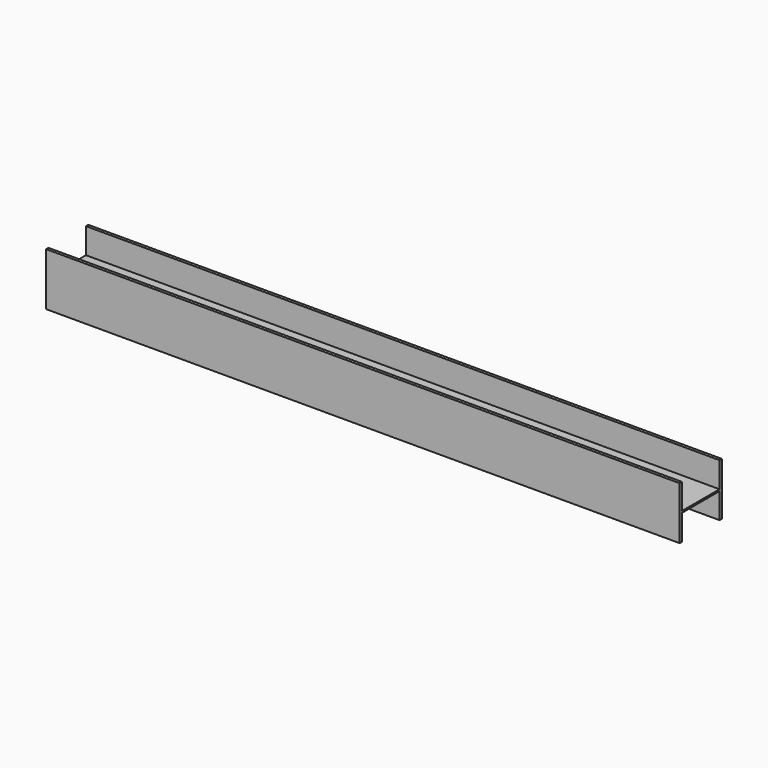
from build123d import *

# Parameters (mm, degrees)
F1_DEPTH = 3000
F2_ANGLE = 90


with BuildPart() as f1:
    # F0 (on Top) → F1 (new body)
    with BuildSketch(Plane.XY):
        Polygon((125, 250), (0, 250), (-125, 250), (-125, 236), (-4, 236), (-4, 14), (-125, 14), (-125, 0), (0, 0), (125, 0), (125, 14), (4, 14), (4, 236), (125, 236), align=None)
        Polygon((125, 250), (0, 250), (-125, 250), (-125, 236), (-4, 236), (-4, 14), (-125, 14), (-125, 0), (0, 0), (125, 0), (125, 14), (4, 14), (4, 236), (125, 236), align=None)
    extrude(amount=F1_DEPTH)


with BuildPart() as f1_1:
    # F2: moved
    add(f1.part.rotate(Axis((-125, 243, 0), (0, -1, 0)), F2_ANGLE))


solid = f1_1.part
